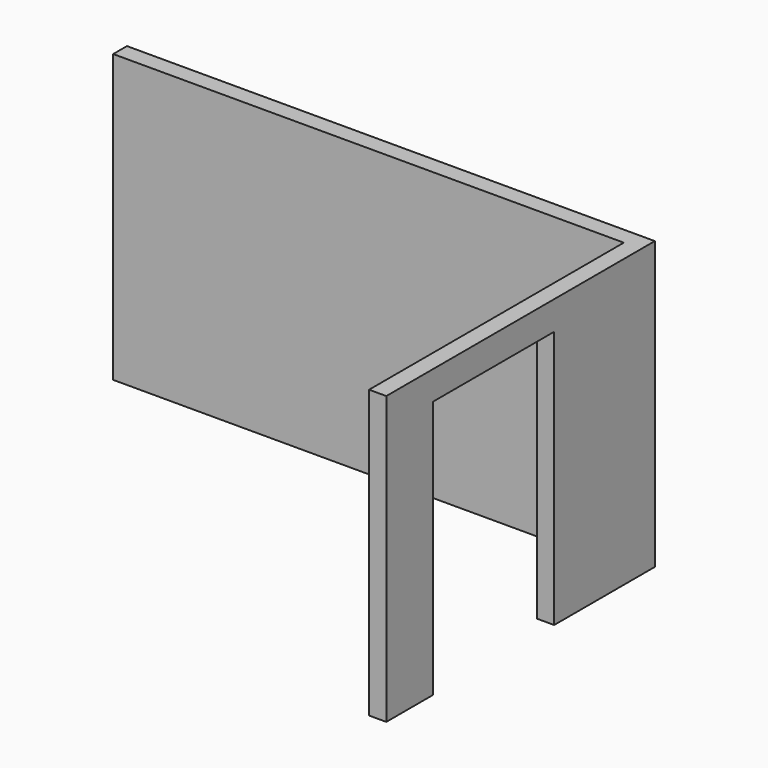
from build123d import *

# Parameters (mm, degrees)
F0_W     = 7.62
F0_H     = 48.07742
F1_DEPTH = 127
F0_H_2   = 66.986127
F2_DEPTH = 127
F3_DEPTH = 114.3
F0_H_3   = 25.906453
F4_DEPTH = 127


with BuildPart() as f1:
    # F0 (on Top) → F1 (new body)
    with BuildSketch(Plane.XY):
        Polygon((121.709297, 79.080492), (-111.970703, 79.080492), (-111.970703, 71.460492), (114.089297, 71.460492), (121.709297, 71.460492), align=None)
        with Locations((117.899297, 47.421782)):
            Rectangle(F0_W, F0_H)
    extrude(amount=F1_DEPTH)

    # F0 (on Top) → F2 (join)
    with BuildSketch(Plane.XY):
        with Locations((117.899297, -10.109991)):
            Rectangle(F0_W, F0_H_2)
    extrude(amount=F2_DEPTH)

    # F0 (on Top) → F3 (cut)
    with BuildSketch(Plane.XY):
        with Locations((117.899297, -10.109991)):
            Rectangle(F0_W, F0_H_2)
    extrude(amount=F3_DEPTH, mode=Mode.SUBTRACT)

    # F0 (on Top) → F4 (join)
    with BuildSketch(Plane.XY):
        with Locations((117.899297, -56.556281)):
            Rectangle(F0_W, F0_H_3)
    extrude(amount=F4_DEPTH)


solid = f1.part
